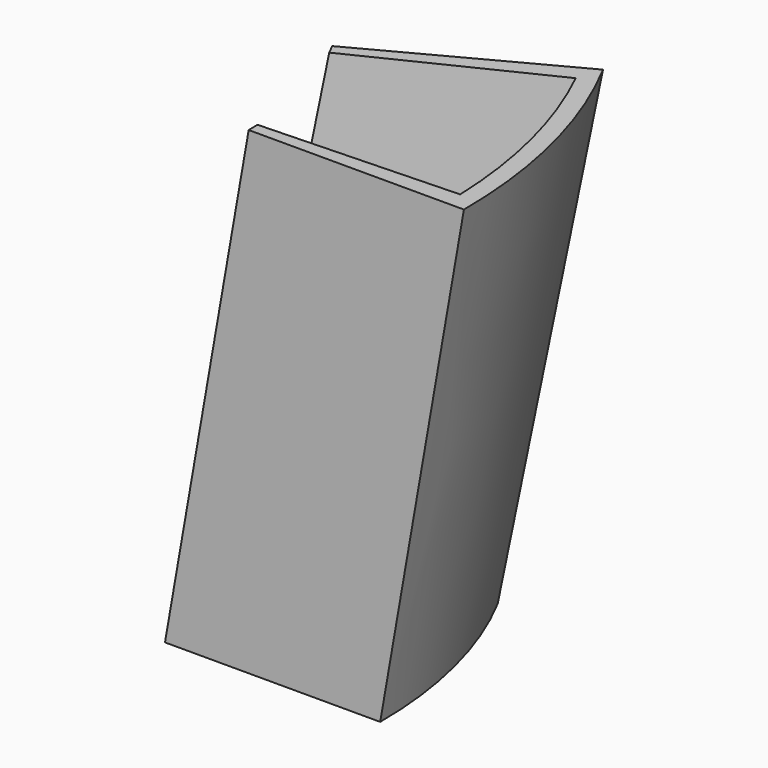
from build123d import *

# Parameters (mm, degrees)
CONE006_ANGLE           = 28
CONE003_ANGLE           = 24
CONE003_PLACEMENT_ANGLE = 1.999999
CONE002_ANGLE           = 28
POCKET_DEPTH            = 5


with BuildPart() as obj1:
    # Cone006 → Cone006 (revolve)
    with BuildSketch(Plane(origin=(0, 0, 12), x_dir=(1, 0, 0), z_dir=(0, -1, 0))):
        Polygon((0, 0), (20, 0), (27, 40), (0, 40), align=None)
    revolve(axis=Axis((0, 0, 12), (0, 0, 1)), revolution_arc=CONE006_ANGLE)


with BuildPart() as obj2:
    # Cone003 → Cone003 (revolve)
    with BuildSketch(Plane.XZ):
        Polygon((0, 0), (36.5, 0), (43.5, 39), (0, 39), align=None)
    revolve(axis=Axis((0, 0, 0), (0, 0, 1)), revolution_arc=CONE003_ANGLE)


with BuildPart() as obj2_1:
    # Cone003 placement: moved
    add(obj2.part.moved(Location((0, 0, 13))).rotate(Axis((0, 0, 13), (0, 0, 1)), CONE003_PLACEMENT_ANGLE))


with BuildPart() as obj3:
    # Cone002 → Cone002 (revolve)
    with BuildSketch(Plane(origin=(0, 0, 12), x_dir=(1, 0, 0), z_dir=(0, -1, 0))):
        Polygon((0, 0), (38, 0), (45, 40), (0, 40), align=None)
    revolve(axis=Axis((0, 0, 12), (0, 0, 1)), revolution_arc=CONE002_ANGLE)

    # Cut001: cut obj2
    add(obj2_1.part, mode=Mode.SUBTRACT)

    # Cut003: cut obj1
    add(obj1.part, mode=Mode.SUBTRACT)

    # Sketch011 → Pocket (cut)
    with BuildSketch(Plane(origin=(0, 0, 12), x_dir=(1, 0, 0), z_dir=(0, 0, -1))):
        with BuildLine():
            ThreePointArc((20.103216, -8.936482), (21.348889, -5.312713), (21.946889, -1.527769))
            Line((21.946889, -1.527769), (23.94206, -1.666658))
            ThreePointArc((21.930781, -9.748889), (23.289698, -5.795687), (23.94206, -1.666658))
            Line((20.103216, -8.936482), (21.930781, -9.748889))
        make_face()
        with BuildLine():
            ThreePointArc((23.758346, -10.561297), (25.230506, -6.278661), (25.937232, -1.805546))
            Line((25.937232, -1.805546), (27.932594, -1.944447))
            ThreePointArc((25.586086, -11.373782), (27.171499, -6.761681), (27.932594, -1.944447))
            Line((23.758346, -10.561297), (25.586086, -11.373782))
        make_face()
        with BuildLine():
            ThreePointArc((27.413476, -12.186112), (29.112122, -7.244609), (29.927575, -2.083322))
            Line((29.927575, -2.083322), (31.922747, -2.22221))
            ThreePointArc((29.241041, -12.998519), (31.05293, -7.727583), (31.922747, -2.22221))
            Line((27.413476, -12.186112), (29.241041, -12.998519))
        make_face()
        with BuildLine():
            ThreePointArc((31.068797, -13.811011), (32.993941, -8.210607), (33.918127, -2.361113))
            Line((33.918127, -2.361113), (35.913287, -2.5))
            ThreePointArc((32.896352, -14.623414), (34.934737, -8.693578), (35.913287, -2.5))
            Line((31.068797, -13.811011), (32.896352, -14.623414))
        make_face()
    extrude(amount=-POCKET_DEPTH, mode=Mode.SUBTRACT)


solid = obj3.part
